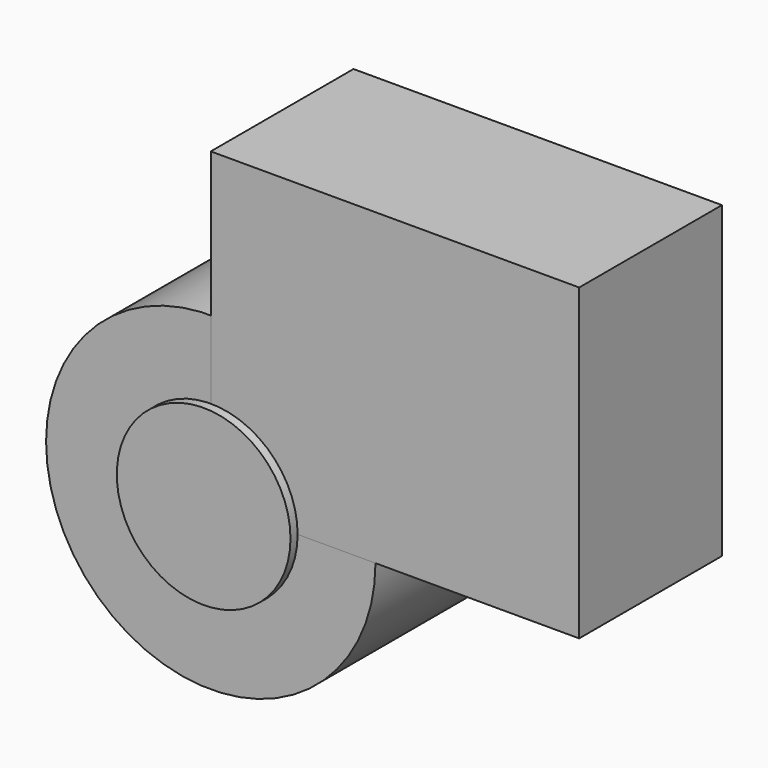
from build123d import *

# Parameters (mm, degrees)
F0_R     = 9.2316648867
F1_DEPTH = 10
F2_R     = 4.8679534535
F3_DEPTH = 10.5
F4_W     = 20.6507313997
F4_H     = 17.3169784248
F5_DEPTH = 10


with BuildPart() as f1:
    # F0 (on Front) → F1 (new body, symmetric)
    with BuildSketch(Plane.XZ):
        Circle(F0_R)
    extrude(amount=F1_DEPTH, both=True)


with BuildPart() as f3:
    # F2 (on Front) → F3 (new body, symmetric)
    with BuildSketch(Plane.XZ):
        Circle(F2_R)
    extrude(amount=F3_DEPTH, both=True)


with BuildPart() as f5:
    # F4 (on Front) → F5 (new body)
    with BuildSketch(Plane.XZ):
        with Locations((10.3253656998, 8.6584892124)):
            Rectangle(F4_W, F4_H)
    extrude(amount=F5_DEPTH)


solid = Compound([f1.part, f3.part, f5.part])
